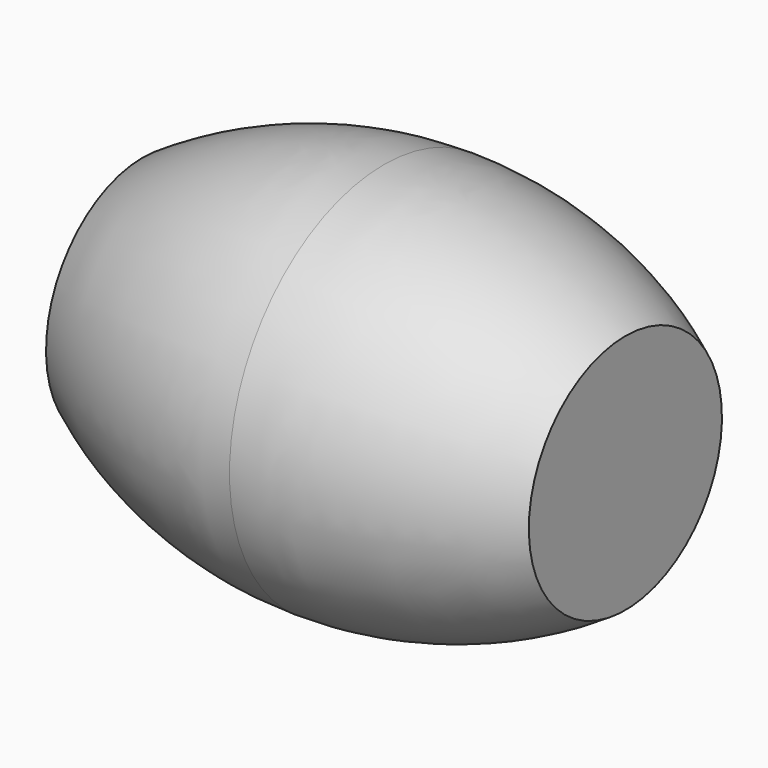
from build123d import *


with BuildPart() as f1:
    # F0 (on Front) → F1 (revolve)
    with BuildSketch(Plane.XZ):
        with BuildLine():
            ThreePointArc((250, 200), (119.496169, 180.846105), (0, 125))
            Line((0, 125), (0, 0))
            Line((0, 0), (500, 0))
            Line((500, 0), (500, 125))
            ThreePointArc((500, 125), (380.503831, 180.846105), (250, 200))
        make_face()
    revolve(axis=Axis((250, 0, 0), (1, 0, 0)))


solid = f1.part
